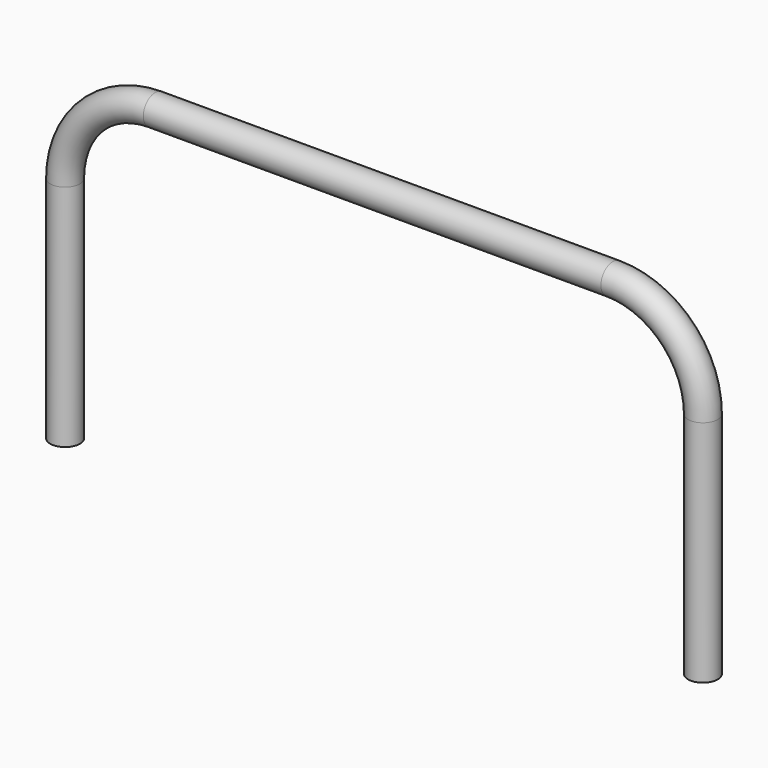
from build123d import *

# Parameters (mm, degrees)
F1_R = 22.225


with BuildPart() as f2:
    # F2: sweep along a path in F0
    with BuildLine(Plane.XZ) as f2_path:
        Line((-477.775, 0), (-477.775, 342.775))
        ThreePointArc((-477.775, 342.775), (-438.234415, 438.234415), (-342.775, 477.775))
        Line((-342.775, 477.775), (342.775, 477.775))
        ThreePointArc((342.775, 477.775), (438.234415, 438.234415), (477.775, 342.775))
        Line((477.775, 342.775), (477.775, 0))
    # F1 (on Top) → F2 (sweep)
    with BuildSketch(Plane.XY):
        with Locations((-477.775, 0)):
            Circle(F1_R)
    sweep(path=f2_path.line)


solid = f2.part
